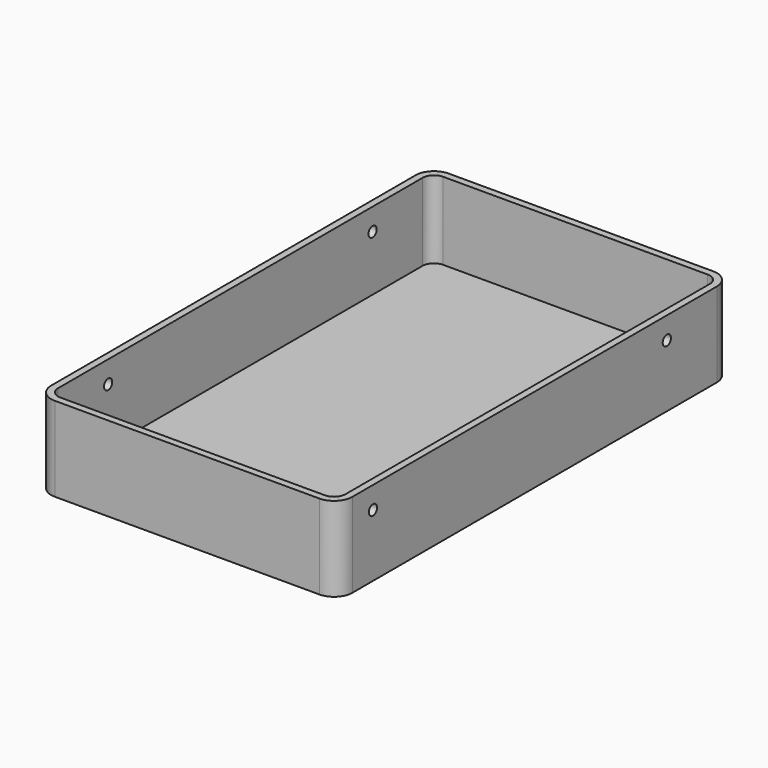
from build123d import *

# Parameters (mm, degrees)
F1_DEPTH = 23
F2_T     = -1.9
F4_DEPTH = 2
F5_R     = 1.4
F6_DEPTH = 2
F7_R     = 1.4
F8_DEPTH = 2


with BuildPart() as f1:
    # F0 (on Top) → F1 (new body)
    with BuildSketch(Plane.XY):
        with BuildLine():
            Line((-36, -67), (36, -67))
            ThreePointArc((36, -67), (39.535534, -65.535534), (41, -62))
            Line((41, -62), (41, 62))
            ThreePointArc((41, 62), (39.535534, 65.535534), (36, 67))
            Line((36, 67), (-36, 67))
            ThreePointArc((-36, 67), (-39.535534, 65.535534), (-41, 62))
            Line((-41, 62), (-41, -62))
            ThreePointArc((-41, -62), (-39.535534, -65.535534), (-36, -67))
        make_face()
    extrude(amount=F1_DEPTH)

    # F2
    f2_openings = [f1.faces().sort_by_distance(p)[0] for p in [
        (0, 0, 23),
    ]]
    offset(amount=F2_T, openings=f2_openings)

    # F3 (on face) → F4 (cut)
    with BuildSketch(Plane.XY.offset(1.9)):
        with BuildLine():
            ThreePointArc((15.5, 3.5), (18, 1), (20.5, 3.5))
            Line((20.5, 3.5), (20.5, 10.5))
            ThreePointArc((20.5, 10.5), (18, 13), (15.5, 10.5))
            Line((15.5, 10.5), (15.5, 3.5))
        make_face()
    extrude(amount=-F4_DEPTH, mode=Mode.SUBTRACT)

    # F5 (on face) → F6 (cut)
    with BuildSketch(Plane(origin=(-41, 0, 0), x_dir=(0, -1, 0), z_dir=(-1, 0, 0))):
        with Locations((-45, 17)):
            Circle(F5_R)
        with Locations((45, 17)):
            Circle(F5_R)
    extrude(amount=-F6_DEPTH, mode=Mode.SUBTRACT)

    # F7 (on face) → F8 (cut)
    with BuildSketch(Plane.YZ.offset(41)):
        with Locations((-55, 17)):
            Circle(F7_R)
        with Locations((45, 17)):
            Circle(F7_R)
    extrude(amount=-F8_DEPTH, mode=Mode.SUBTRACT)


solid = f1.part
